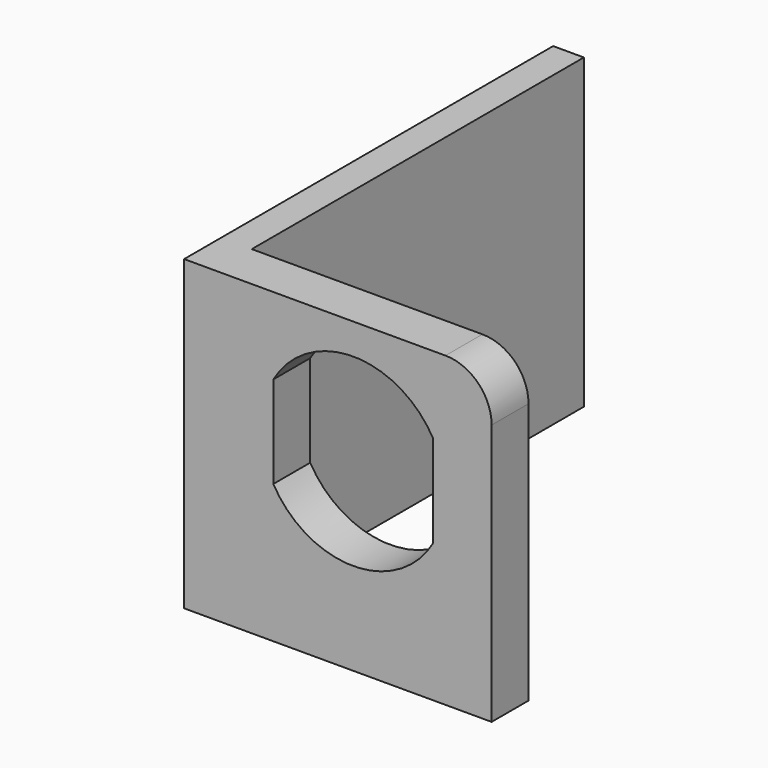
from build123d import *

# Parameters (mm, degrees)
F0_W     = 20
F0_H     = 20
F1_DEPTH = 3
F2_W     = 2
F2_H     = 20
F3_DEPTH = 27
F5_DEPTH = 25
F6_R     = 1.5
F7_DEPTH = 25
F8_R     = 3


with BuildPart() as f1:
    # F0 (on Front) → F1 (new body)
    with BuildSketch(Plane.XZ):
        with Locations((10, -10)):
            Rectangle(F0_W, F0_H)
    extrude(amount=F1_DEPTH)

    # F2 (on face) → F3 (join)
    with BuildSketch(Plane(origin=(0, 0, 0), x_dir=(-1, 0, 0), z_dir=(0, 1, 0))):
        with Locations((-1, -10)):
            Rectangle(F2_W, F2_H)
    extrude(amount=F3_DEPTH)

    # F4 (on face) → F5 (cut)
    with BuildSketch(Plane.XZ.offset(3)):
        with BuildLine():
            Line((5.8, -5.006674), (5.8, -10.993326))
            ThreePointArc((5.8, -10.993326), (11, -14), (16.2, -10.993326))
            Line((16.2, -10.993326), (16.2, -5.006674))
            ThreePointArc((16.2, -5.006674), (11, -2), (5.8, -5.006674))
        make_face()
    extrude(amount=-F5_DEPTH, mode=Mode.SUBTRACT)

    # F6 (on face) → F7 (cut)
    with BuildSketch(Plane.YZ.offset(2)):
        with Locations((12, -10)):
            Circle(F6_R)
    extrude(amount=-F7_DEPTH, mode=Mode.SUBTRACT)

    # F8
    f8_edges = [f1.edges().sort_by_distance(p)[0] for p in [
        (20, -1.5, 0),
    ]]
    fillet(f8_edges, radius=F8_R)


solid = f1.part
